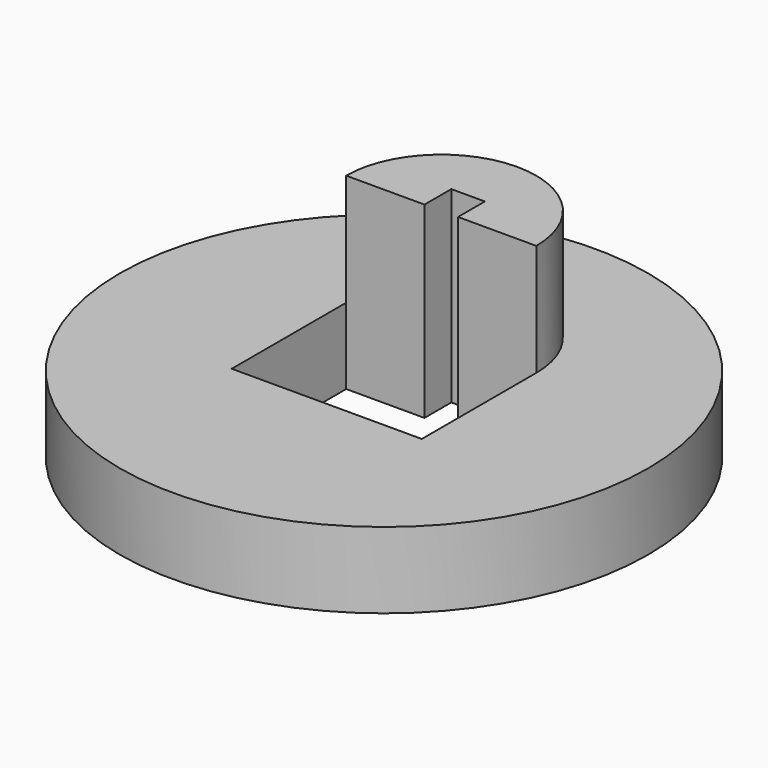
from build123d import *

# Parameters (mm, degrees)
F0_R     = 15
F0_W     = 10.795
F0_H     = 8.128
F1_DEPTH = 4.318
F2_W     = 1.905
F2_H     = 1.905
F3_DEPTH = 25.4
F5_DEPTH = 6.35


with BuildPart() as f1:
    # F0 (on Top) → F1 (new body)
    with BuildSketch(Plane.XY):
        Circle(F0_R)
        Rectangle(F0_W, F0_H, mode=Mode.SUBTRACT)
    extrude(amount=F1_DEPTH)

    # F2 (on face) → F3 (cut)
    with BuildSketch(Plane.XY.offset(4.318)):
        with Locations((0, 5.0165)):
            Rectangle(F2_W, F2_H)
    extrude(amount=-F3_DEPTH, mode=Mode.SUBTRACT)

    # F4 (on face) → F5 (join)
    with BuildSketch(Plane.XY.offset(4.318)):
        with BuildLine():
            Line((0.9525, 4.064), (5.3975, 4.064))
            ThreePointArc((5.3975, 4.064), (0, 9.4615), (-5.3975, 4.064))
            Line((-5.3975, 4.064), (-0.9525, 4.064))
            Line((-0.9525, 4.064), (-0.9525, 5.969))
            Line((-0.9525, 5.969), (0.9525, 5.969))
            Line((0.9525, 5.969), (0.9525, 4.064))
        make_face()
    extrude(amount=F5_DEPTH)


solid = f1.part
